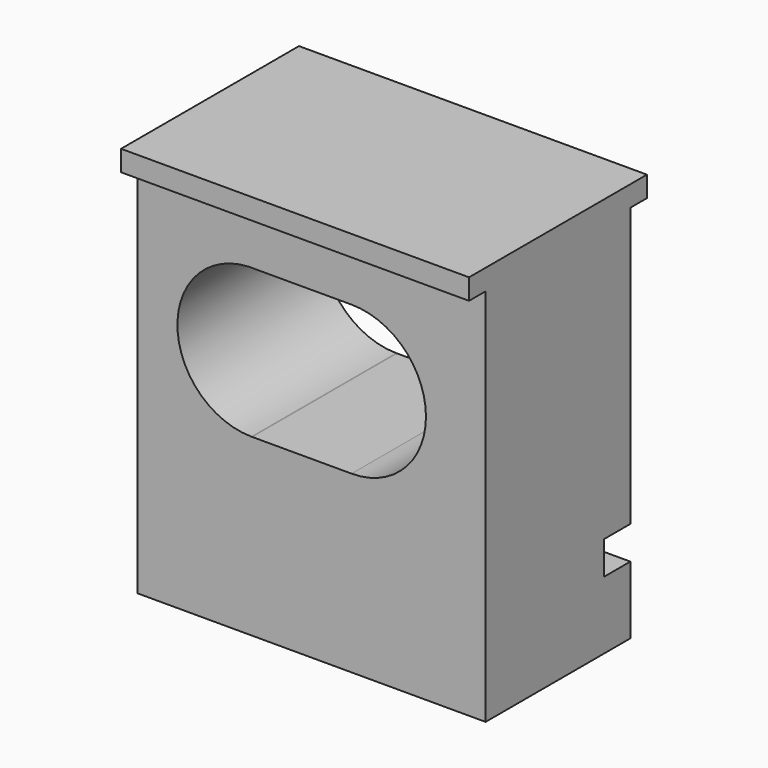
from build123d import *

# Parameters (mm, degrees)
F0_W      = 25.4
F0_H      = 2.54
F0_H_2    = 1.524
F1_DEPTH  = 13.8684
F2_DEPTH  = 2.54
F3_DEPTH  = 1.397
F4_DEPTH  = 0.127
F5_DEPTH  = 3.6576
F6_W      = 13.97
F6_H      = 13.8684
F7_DEPTH  = 1.5875
F8_W      = 13.97
F8_H      = 1.5875
F9_DEPTH  = 1.5875
F10_W     = 13.97
F10_H     = 1.5875
F11_DEPTH = 1.5875
F12_DEPTH = 12.7


with BuildPart() as f1:
    # F0 (on Front) → F1 (new body)
    with BuildSketch(Plane.XZ):
        Polygon((12.7, 12.7), (-12.7, 12.7), (-12.7, -4.10832325), (-12.7, -8.636), (12.7, -8.636), align=None)
        with BuildLine():
            ThreePointArc((-4.0682750421, 8.452909583), (-3.8265239697, 8.4581987178), (-3.584766021, 8.4532338248))
            Line((-3.584766021, 8.4532338248), (3.8188760303, 8.4581987178))
            ThreePointArc((3.8188760303, 8.4581987178), (9.5249996895, 2.7577817272), (3.8226394845, -2.9463999997))
            Line((3.8226394845, -2.9463999997), (-3.7923413869, -2.9463191859))
            ThreePointArc((-3.7923413869, -2.9463191859), (-3.8227605155, -2.9463999997), (-3.8531796423, -2.9463185403))
            ThreePointArc((-3.8531796423, -2.9463185403), (-9.5239851182, 2.6483207685), (-4.0682750421, 8.452909583))
        make_face(mode=Mode.SUBTRACT)
        with Locations((0, -9.906)):
            Rectangle(F0_W, F0_H)
        with Locations((0, -11.938)):
            Rectangle(F0_W, F0_H_2)
    extrude(amount=F1_DEPTH)

    # F0 (on Front) → F2 (cut)
    with BuildSketch(Plane.XZ):
        with Locations((0, -9.906)):
            Rectangle(F0_W, F0_H)
    extrude(amount=F2_DEPTH, mode=Mode.SUBTRACT)

    # F3 (add): a face of the model
    f3_faces = [f1.faces().sort_by_distance(p)[0] for p in [
        (12.7, -7.0398753731, 0.1848134328),
    ]]
    extrude(f3_faces, amount=F3_DEPTH)

    # F4 (cut): a face of the model
    f4_faces = [f1.faces().sort_by_distance(p)[0] for p in [
        (-12.7, -7.0398753731, 0.1848134328),
    ]]
    extrude(f4_faces, amount=-F4_DEPTH, mode=Mode.SUBTRACT)

    # F5 (add): a face of the model
    f5_faces = [f1.faces().sort_by_distance(p)[0] for p in [
        (0.762, -6.9342, -12.7),
    ]]
    extrude(f5_faces, amount=F5_DEPTH)

    # F6 (on face) → F7 (join)
    with BuildSketch(Plane.XY.offset(12.7)):
        with Locations((7.112, -6.9342)):
            Rectangle(F6_W, F6_H)
    extrude(amount=F7_DEPTH)

    # F8 (on face) → F9 (join)
    with BuildSketch(Plane.XZ.offset(13.8684)):
        with Locations((7.112, 13.49375)):
            Rectangle(F8_W, F8_H)
    extrude(amount=F9_DEPTH)

    # F10 (on face) → F11 (join)
    with BuildSketch(Plane(origin=(0, 0, 0), x_dir=(-1, 0, 0), z_dir=(0, 1, 0))):
        with Locations((-7.112, 13.49375)):
            Rectangle(F10_W, F10_H)
    extrude(amount=F11_DEPTH)

    # F12 (add, through all): a face of the model
    f12_faces = [f1.faces().sort_by_distance(p)[0] for p in [
        (0.127, -6.9342, 13.49375),
    ]]
    extrude(f12_faces, amount=F12_DEPTH)


solid = f1.part
